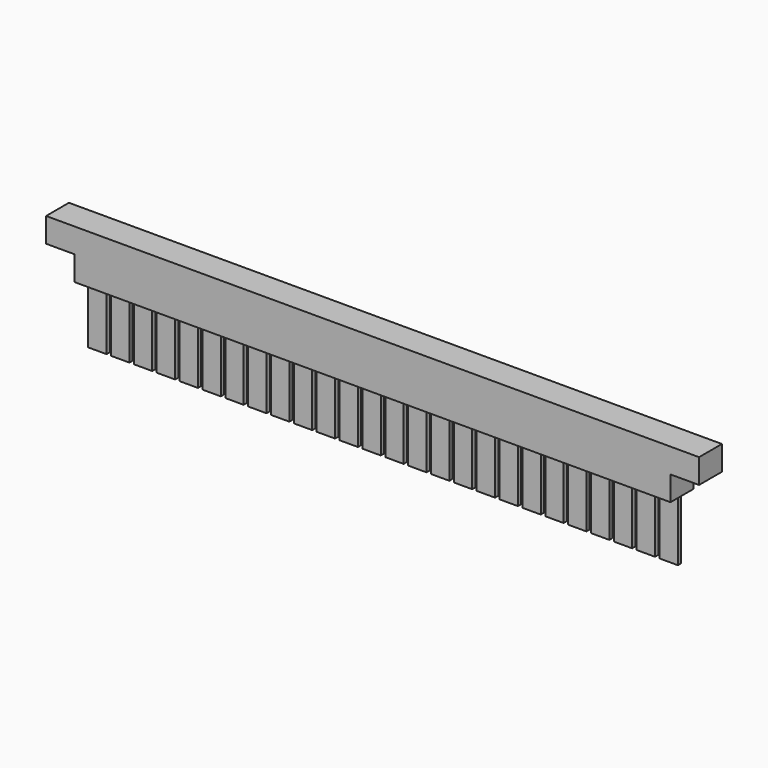
from build123d import *

# Parameters (mm, degrees)
F0_W     = 4.5
F0_H     = 15
F1_DEPTH = 0.5
F2_DEPTH = 3.5


with BuildPart() as f1:
    # F0 (on Front) → F1 (new body, symmetric)
    with BuildSketch(Plane.XZ):
        with Locations((70.164407, -16.5)):
            Rectangle(F0_W, F0_H)
        with Locations((53.364407, -16.5)):
            Rectangle(F0_W, F0_H)
        with Locations((58.964407, -16.5)):
            Rectangle(F0_W, F0_H)
        with Locations((19.764407, -16.5)):
            Rectangle(F0_W, F0_H)
        with Locations((64.564407, -16.5)):
            Rectangle(F0_W, F0_H)
        with Locations((25.364407, -16.5)):
            Rectangle(F0_W, F0_H)
        with Locations((-8.235593, -16.5)):
            Rectangle(F0_W, F0_H)
        with Locations((-13.835593, -16.5)):
            Rectangle(F0_W, F0_H)
        with Locations((-19.435593, -16.5)):
            Rectangle(F0_W, F0_H)
        with Locations((-30.635593, -16.5)):
            Rectangle(F0_W, F0_H)
        with Locations((-25.035593, -16.5)):
            Rectangle(F0_W, F0_H)
        with Locations((-36.235593, -16.5)):
            Rectangle(F0_W, F0_H)
        with Locations((-41.835593, -16.5)):
            Rectangle(F0_W, F0_H)
        with Locations((-47.435593, -16.5)):
            Rectangle(F0_W, F0_H)
        with Locations((-53.035593, -16.5)):
            Rectangle(F0_W, F0_H)
        with Locations((-58.635593, -16.5)):
            Rectangle(F0_W, F0_H)
        with Locations((-64.235593, -16.5)):
            Rectangle(F0_W, F0_H)
        with Locations((-69.835593, -16.5)):
            Rectangle(F0_W, F0_H)
        with Locations((14.164407, -16.5)):
            Rectangle(F0_W, F0_H)
        with Locations((2.964407, -16.5)):
            Rectangle(F0_W, F0_H)
        with Locations((-2.635593, -16.5)):
            Rectangle(F0_W, F0_H)
        with Locations((8.564407, -16.5)):
            Rectangle(F0_W, F0_H)
        with Locations((47.764407, -16.5)):
            Rectangle(F0_W, F0_H)
        with Locations((42.164407, -16.5)):
            Rectangle(F0_W, F0_H)
        with Locations((36.564407, -16.5)):
            Rectangle(F0_W, F0_H)
        with Locations((30.964407, -16.5)):
            Rectangle(F0_W, F0_H)
    extrude(amount=F1_DEPTH, both=True)


with BuildPart() as f2:
    # F0 (on Front) → F2 (new body, symmetric)
    with BuildSketch(Plane.XZ):
        Polygon((80, -3), (80, 3), (-80, 3), (-80, -3), (-73, -3), (73, -3), align=None)
        Polygon((73, -9), (73, -3), (-73, -3), (-73, -9), (-72.085593, -9), (-67.585593, -9), (-66.485593, -9), (-61.985593, -9), (-60.885593, -9), (-56.385593, -9), (-55.285593, -9), (-50.785593, -9), (-49.685593, -9), (-45.185593, -9), (-44.085593, -9), (-39.585593, -9), (-38.485593, -9), (-33.985593, -9), (-32.885593, -9), (-28.385593, -9), (-27.285593, -9), (-22.785593, -9), (-21.685593, -9), (-17.185593, -9), (-16.085593, -9), (-11.585593, -9), (-10.485593, -9), (-5.985593, -9), (-4.885593, -9), (-0.385593, -9), (0.714407, -9), (5.214407, -9), (6.314407, -9), (10.814407, -9), (11.914407, -9), (16.414407, -9), (17.514407, -9), (22.014407, -9), (23.114407, -9), (27.614407, -9), (28.714407, -9), (33.214407, -9), (34.314407, -9), (38.814407, -9), (39.914407, -9), (44.414407, -9), (45.514407, -9), (50.014407, -9), (51.114407, -9), (55.614407, -9), (56.714407, -9), (61.214407, -9), (62.314407, -9), (66.814407, -9), (67.914407, -9), (72.414407, -9), align=None)
    extrude(amount=F2_DEPTH, both=True)


solid = Compound([f1.part, f2.part])
